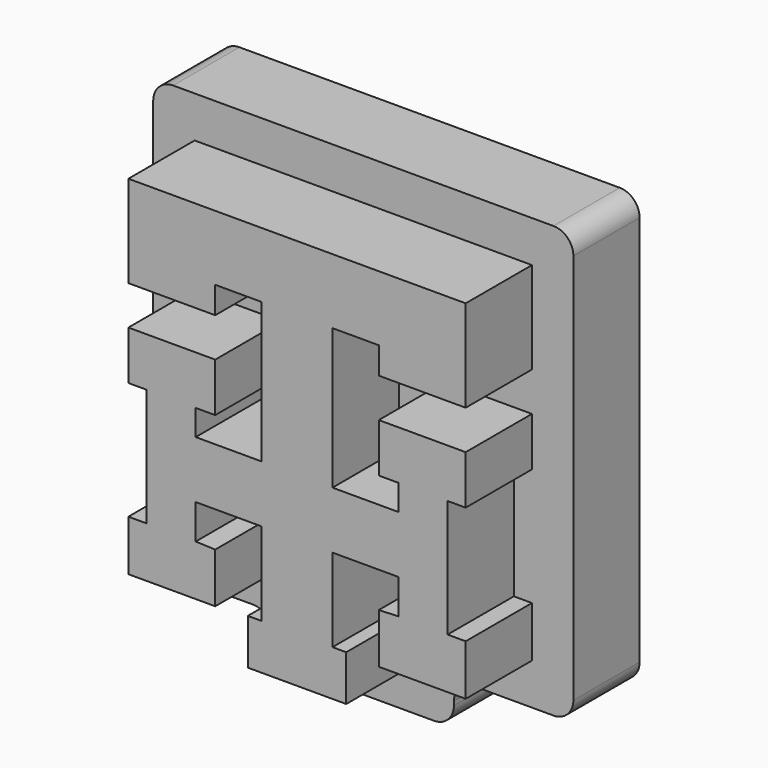
from build123d import *

# Parameters (mm, degrees)
F1_DEPTH = 25.4
F3_DEPTH = 12.7
F4_R     = 3.048


with BuildPart() as f1:
    # F0 (on Front) → F1 (new body)
    with BuildSketch(Plane.XZ):
        Polygon((65.826714, 50.568782), (14.111398, 50.568782), (14.111398, 36.474694), (27.428646, 36.474694), (27.428646, 40.580846), (34.53118, 40.580846), (34.53118, 19.051294), (24.432266, 19.051294), (24.432266, 22.990979), (27.428646, 22.990979), (27.428646, 30.481933), (14.111398, 30.481933), (14.111398, 22.990979), (16.885825, 22.990979), (16.885825, 4.957206), (14.111398, 4.957206), (14.111398, -2.81119), (27.428646, -2.81119), (27.428646, 4.846229), (24.432266, 4.957206), (24.432266, 10.284104), (34.53118, 10.284104), (34.53118, -2.478259), (32.422613, -2.478259), (32.422613, -9.469814), (47.515498, -9.469814), (47.515498, -2.478259), (45.406932, -2.478259), (45.406932, 10.284104), (55.505846, 10.284104), (55.505846, 4.957206), (52.509466, 4.846229), (52.509466, -2.81119), (65.826714, -2.81119), (65.826714, 4.957206), (63.052287, 4.957206), (63.052287, 22.990979), (65.826714, 22.990979), (65.826714, 30.481933), (52.509466, 30.481933), (52.509466, 22.990979), (55.505846, 22.990979), (55.505846, 19.051294), (45.406932, 19.051294), (45.406932, 40.580846), (52.509466, 40.580846), (52.509466, 36.474694), (65.826714, 36.474694), align=None)
    extrude(amount=F1_DEPTH)

    # F2 (on face) → F3 (join)
    with BuildSketch(Plane(origin=(0, 0, 0), x_dir=(-1, 0, 0), z_dir=(0, 1, 0))):
        Polygon((-7.761398, -9.16119), (-7.761398, 56.918782), (-72.176714, 56.918782), (-72.176714, -9.16119), (-53.865498, -9.16119), (-53.865498, -15.819814), (-26.072614, -15.819814), (-26.072614, -9.16119), align=None)
        Polygon((-65.826714, 50.568782), (-14.111398, 50.568782), (-14.111398, 36.474694), (-27.428646, 36.474694), (-27.428646, 40.580846), (-34.53118, 40.580846), (-34.53118, 19.051294), (-24.432266, 19.051294), (-24.432266, 22.990979), (-27.428646, 22.990979), (-27.428646, 30.481933), (-14.111398, 30.481933), (-14.111398, 22.990979), (-16.885825, 22.990979), (-16.885825, 4.957206), (-14.111398, 4.957206), (-14.111398, -2.81119), (-27.428646, -2.81119), (-27.428646, 4.846229), (-24.432266, 4.957206), (-24.432266, 10.284104), (-34.53118, 10.284104), (-34.53118, -2.478259), (-32.422613, -2.478259), (-32.422613, -9.469814), (-47.515498, -9.469814), (-47.515498, -2.478259), (-45.406932, -2.478259), (-45.406932, 10.284104), (-55.505846, 10.284104), (-55.505846, 4.957206), (-52.509466, 4.846229), (-52.509466, -2.81119), (-65.826714, -2.81119), (-65.826714, 4.957206), (-63.052287, 4.957206), (-63.052287, 22.990979), (-65.826714, 22.990979), (-65.826714, 30.481933), (-52.509466, 30.481933), (-52.509466, 22.990979), (-55.505846, 22.990979), (-55.505846, 19.051294), (-45.406932, 19.051294), (-45.406932, 40.580846), (-52.509466, 40.580846), (-52.509466, 36.474694), (-65.826714, 36.474694), align=None, mode=Mode.SUBTRACT)
    extrude(amount=-F3_DEPTH)

    # F4
    f4_edges = [f1.edges().sort_by_distance(p)[0] for p in [
        (7.761398, -6.35, -9.16119),
        (26.072614, -6.35, -9.16119),
        (26.072614, -6.35, -15.819814),
        (53.865498, -6.35, -15.819814),
        (53.865498, -6.35, -9.16119),
        (72.176714, -6.35, -9.16119),
        (72.176714, -6.35, 56.918782),
        (7.761398, -6.35, 56.918782),
    ]]
    fillet(f4_edges, radius=F4_R)


solid = f1.part
